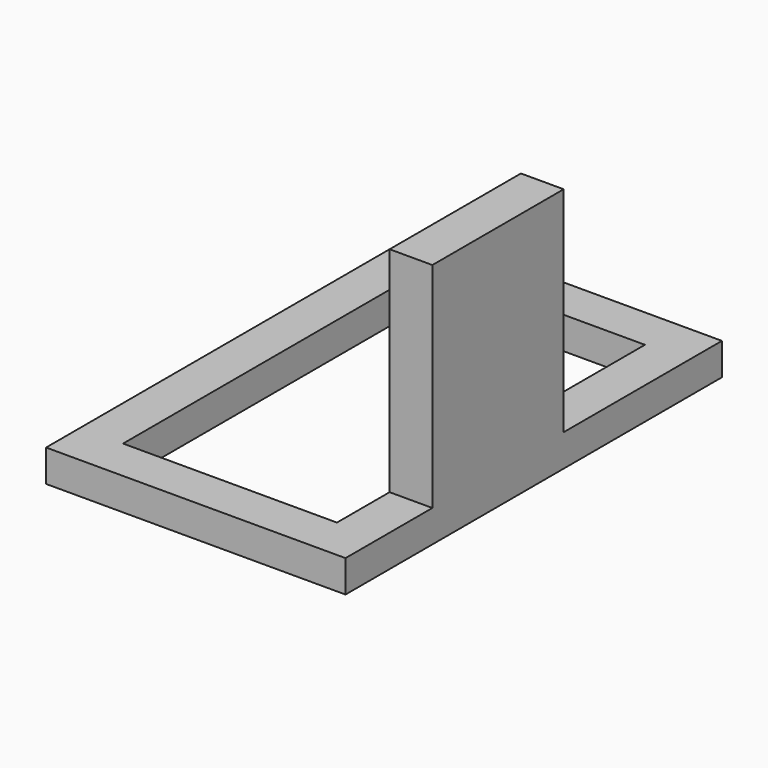
from build123d import *

# Parameters (mm, degrees)
F1_W     = 177.8
F1_H     = 279.4
F1_W_2   = 127
F1_H_2   = 228.6
F2_DEPTH = 19.05
F3_W     = 25.4
F3_H     = 97.467549
F4_DEPTH = 127


with BuildPart() as f2:
    # F1 (on face) → F2 (new body)
    with BuildSketch(Plane.XY):
        with Locations((88.9, 139.7)):
            Rectangle(F1_W, F1_H)
        with Locations((88.9, 139.7)):
            Rectangle(F1_W_2, F1_H_2, mode=Mode.SUBTRACT)
    extrude(amount=F2_DEPTH)

    # F3 (on face) → F4 (join)
    with BuildSketch(Plane.XY.offset(19.05)):
        with Locations((165.1, 113.211195)):
            Rectangle(F3_W, F3_H)
    extrude(amount=F4_DEPTH)


solid = f2.part
